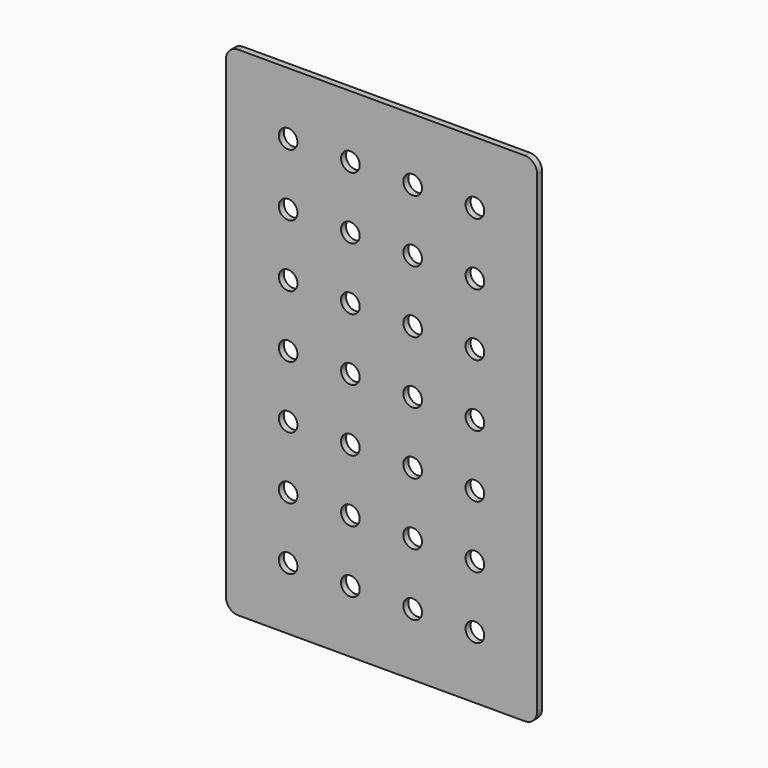
from build123d import *

# Parameters (mm, degrees)
F0_W     = 50
F0_H     = 80
F1_DEPTH = 1
F2_R     = 1.5
F3_DEPTH = 25
F4_R     = 2


with BuildPart() as f1:
    # F0 (on Front) → F1 (new body)
    with BuildSketch(Plane.XZ):
        with Locations((-25, 40)):
            Rectangle(F0_W, F0_H)
    extrude(amount=F1_DEPTH)

    # F2 (on face) → F3 (cut)
    with BuildSketch(Plane.XZ.offset(1)):
        with Locations((-40, 70)):
            Circle(F2_R)
        with Locations((-30, 70)):
            Circle(F2_R)
        with Locations((-20, 70)):
            Circle(F2_R)
        with Locations((-10, 70)):
            Circle(F2_R)
        with Locations((-40, 60)):
            Circle(F2_R)
        with Locations((-30, 60)):
            Circle(F2_R)
        with Locations((-20, 60)):
            Circle(F2_R)
        with Locations((-10, 60)):
            Circle(F2_R)
        with Locations((-40, 50)):
            Circle(F2_R)
        with Locations((-30, 50)):
            Circle(F2_R)
        with Locations((-20, 50)):
            Circle(F2_R)
        with Locations((-10, 50)):
            Circle(F2_R)
        with Locations((-40, 40)):
            Circle(F2_R)
        with Locations((-30, 40)):
            Circle(F2_R)
        with Locations((-20, 40)):
            Circle(F2_R)
        with Locations((-10, 40)):
            Circle(F2_R)
        with Locations((-40, 30)):
            Circle(F2_R)
        with Locations((-30, 30)):
            Circle(F2_R)
        with Locations((-20, 30)):
            Circle(F2_R)
        with Locations((-10, 30)):
            Circle(F2_R)
        with Locations((-40, 20)):
            Circle(F2_R)
        with Locations((-30, 20)):
            Circle(F2_R)
        with Locations((-20, 20)):
            Circle(F2_R)
        with Locations((-10, 20)):
            Circle(F2_R)
        with Locations((-40, 10)):
            Circle(F2_R)
        with Locations((-30, 10)):
            Circle(F2_R)
        with Locations((-20, 10)):
            Circle(F2_R)
        with Locations((-10, 10)):
            Circle(F2_R)
    extrude(amount=-F3_DEPTH, mode=Mode.SUBTRACT)

    # F4
    f4_edges = [f1.edges().sort_by_distance(p)[0] for p in [
        (0, -0.5, 0),
        (0, -0.5, 80),
        (-50, -0.5, 80),
        (-50, -0.5, 0),
    ]]
    fillet(f4_edges, radius=F4_R)


solid = f1.part
